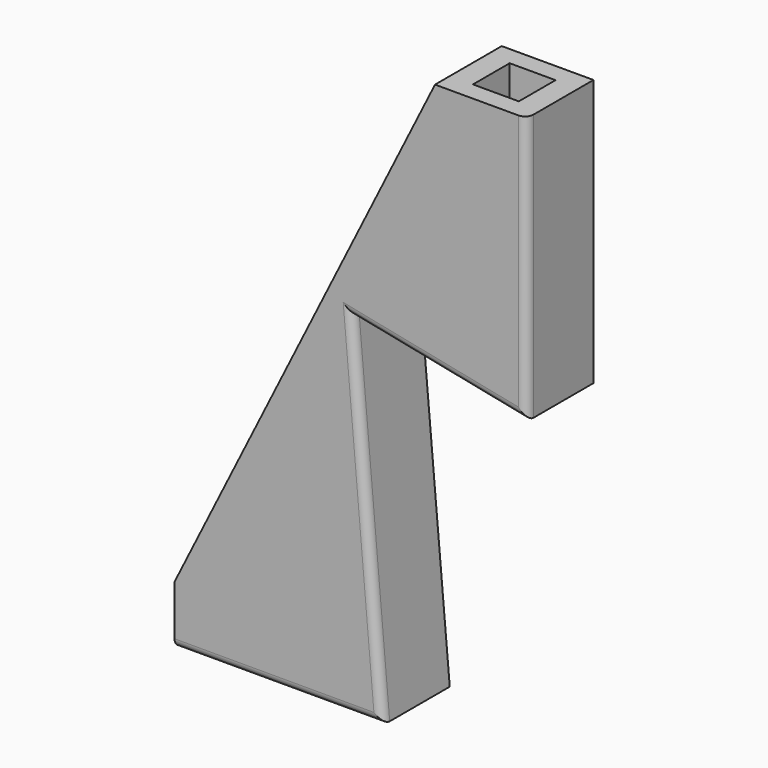
from build123d import *

# Parameters (mm, degrees)
F1_DEPTH = 10
F2_W     = 5.5
F2_H     = 5.5
F3_DEPTH = 5.5
F4_W     = 5.5
F4_H     = 5.5
F5_DEPTH = 5.5
F6_R     = 1


with BuildPart() as f1:
    # F0 (on Front) → F1 (new body)
    with BuildSketch(Plane.XZ):
        Polygon((11, 0), (0, 0), (-31.233847, -62.645405), (-31.233847, -69.645405), (-6.233847, -69.645405), (-9.894388, -27.805228), (11, -32), align=None)
    extrude(amount=F1_DEPTH)

    # F2 (on face) → F3 (cut)
    with BuildSketch(Plane(origin=(-31.233847, 0, 0), x_dir=(0, -1, 0), z_dir=(-1, 0, 0))):
        with Locations((5, -66.145405)):
            Rectangle(F2_W, F2_H)
    extrude(amount=-F3_DEPTH, mode=Mode.SUBTRACT)

    # F4 (on face) → F5 (cut)
    with BuildSketch(Plane.XY):
        with Locations((5.5, -5)):
            Rectangle(F4_W, F4_H)
    extrude(amount=-F5_DEPTH, mode=Mode.SUBTRACT)

    # F6
    f6_edges = [f1.edges().sort_by_distance(p)[0] for p in [
        (0.552806, -10, -29.902614),
        (-18.733847, -10, -69.645405),
        (-8.064118, -10, -48.725317),
        (11, -10, -16),
    ]]
    fillet(f6_edges, radius=F6_R)


solid = f1.part
